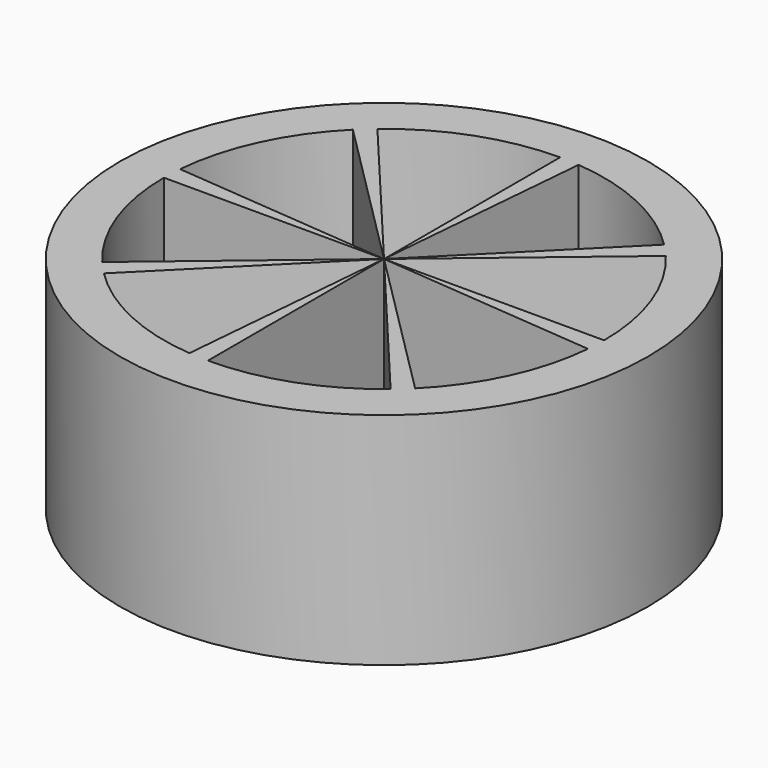
from build123d import *

# Parameters (mm, degrees)
CYLINDER001_W     = 10
CYLINDER001_H     = 12
CYLINDER001_ANGLE = 40
ARRAY_COUNT       = 8
CYLINDER_R        = 12
CYLINDER_DEPTH    = 10


with BuildPart() as array:
    # Cylinder001 → Cylinder001 (revolve)
    with BuildSketch(Plane(origin=(0, 0, 2), x_dir=(1, 0, 0), z_dir=(0, -1, 0))):
        with Locations((5, 6)):
            Rectangle(CYLINDER001_W, CYLINDER001_H)
    revolve(axis=Axis((0, 0, 2), (0, 0, 1)), revolution_arc=CYLINDER001_ANGLE)

    # Array: Array ×8 about axis
    array_axis = Axis((0, 0, 0), (0, 0, 1))


with BuildPart() as array_1:
    add(array.part)
    for i in range(1, ARRAY_COUNT):
        add(array.part.rotate(array_axis, i * 360 / ARRAY_COUNT))


with BuildPart() as cut:
    # Cylinder → Cylinder (new body)
    with BuildSketch(Plane.XY):
        Circle(CYLINDER_R)
    extrude(amount=CYLINDER_DEPTH)

    # Cut: cut Array
    add(array_1.part, mode=Mode.SUBTRACT)


solid = cut.part
